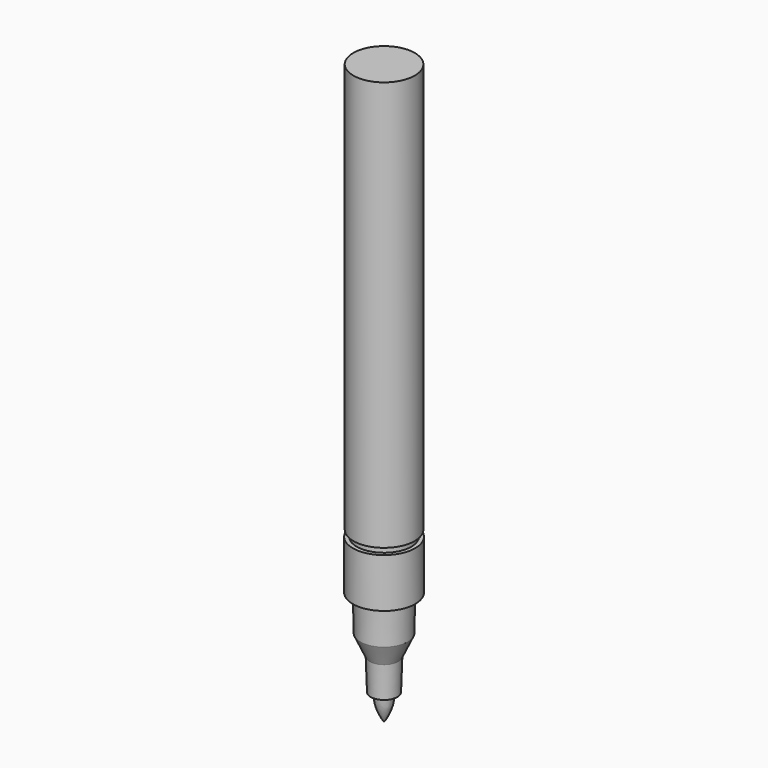
from build123d import *

# Parameters (mm, degrees)
F0_R       = 7.5
F1_DEPTH   = 100
F2_R       = 6.65
F3_DEPTH   = 1.5
F4_R       = 7.615
F5_DEPTH   = 12
F6_R       = 5.95
F8_R       = 5.8
F9_FACE_R  = 5.8
F11_R      = 3.5
F12_FACE_R = 3.5
F14_R      = 3.25


with BuildPart() as f1:
    # F0 (on Top) → F1 (new body)
    with BuildSketch(Plane.XY):
        Circle(F0_R)
    extrude(amount=F1_DEPTH)

    # F2 (on face) → F3 (join)
    with BuildSketch(Plane(origin=(0, 0, 0), x_dir=(1, 0, 0), z_dir=(0, 0, -1))):
        Circle(F2_R)
    extrude(amount=F3_DEPTH)

    # F4 (on face) → F5 (join)
    with BuildSketch(Plane(origin=(0, 0, -1.5), x_dir=(1, 0, 0), z_dir=(0, 0, -1))):
        Circle(F4_R)
    extrude(amount=F5_DEPTH)

    # F6 (on face) → F9 section 0
    with BuildSketch(Plane(origin=(0, 0, -13.5), x_dir=(1, 0, 0), z_dir=(0, 0, -1))):
        Circle(F6_R)
    # F8 (on offset) → F9 section 1
    with BuildSketch(Plane(origin=(0, 0, -22.2), x_dir=(1, 0, 0), z_dir=(0, 0, -1))):
        Circle(F8_R)
    loft()

    # F9_face (on face) → F12 section 0
    with BuildSketch(Plane(origin=(0, 0, -22.2), x_dir=(1, 0, 0), z_dir=(0, 0, -1))):
        Circle(F9_FACE_R)
    # F11 (on offset) → F12 section 1
    with BuildSketch(Plane(origin=(0, 0, -27.2), x_dir=(1, 0, 0), z_dir=(0, 0, -1))):
        Circle(F11_R)
    loft()

    # F12_face (on face) → F15 section 0
    with BuildSketch(Plane(origin=(0, 0, -27.2), x_dir=(1, 0, 0), z_dir=(0, 0, -1))):
        Circle(F12_FACE_R)
    # F14 (on offset) → F15 section 1
    with BuildSketch(Plane(origin=(0, 0, -34.9), x_dir=(1, 0, 0), z_dir=(0, 0, -1))):
        Circle(F14_R)
    loft()

    # F16 (on Right) → F17 (revolve)
    with BuildSketch(Plane.YZ):
        with BuildLine():
            Line((0, -34.9), (-2.05, -34.9))
            ThreePointArc((-2.05, -34.9), (-1.5249883748, -38.2601525263), (0, -41.3))
            Line((0, -41.3), (0, -34.9))
        make_face()
    revolve(axis=Axis((0, 0, -38.1), (0, 0, -1)))


solid = f1.part
